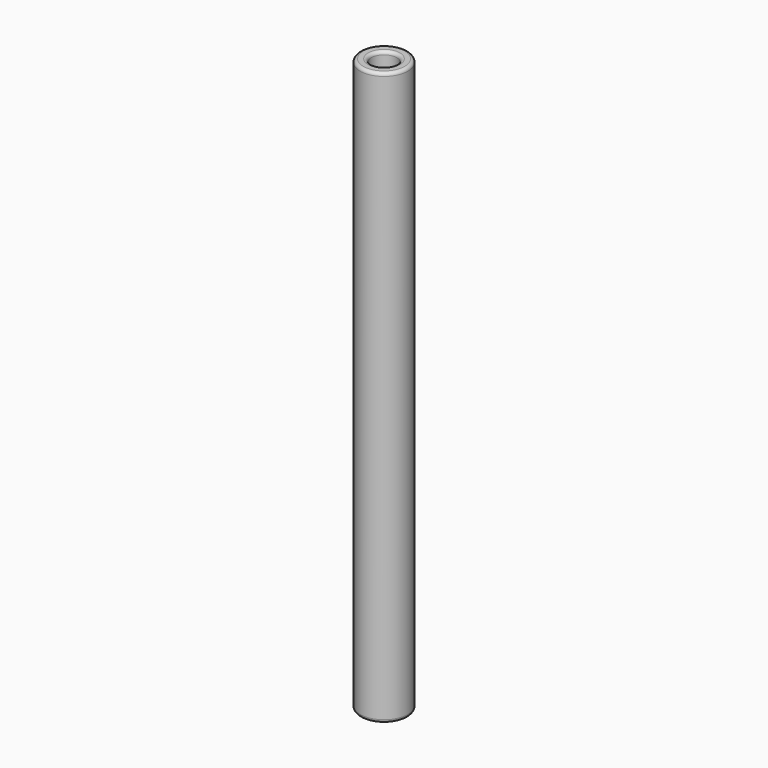
from build123d import *

# Parameters (mm, degrees)
F0_R     = 7.5
F1_DEPTH = 90
F2_R     = 4
F3_DEPTH = 10
F4_R     = 4
F5_DEPTH = 10
F6_R     = 1
F7_DEPTH = 5.0000001171
F8_DEPTH = 2
F9_R     = 1


with BuildPart() as f1:
    # F0 (on Top) → F1 (new body, symmetric)
    with BuildSketch(Plane.XY):
        Circle(F0_R)
    extrude(amount=F1_DEPTH, both=True)

    # F2 (on face) → F3 (cut)
    with BuildSketch(Plane.XY.offset(90)):
        Circle(F2_R)
    extrude(amount=-F3_DEPTH, mode=Mode.SUBTRACT)

    # F4 (on face) → F5 (cut)
    with BuildSketch(Plane(origin=(0, 0, -90), x_dir=(1, 0, 0), z_dir=(0, 0, -1))):
        Circle(F4_R)
    extrude(amount=-F5_DEPTH, mode=Mode.SUBTRACT)

    # F6 (on Front) → F7 (join, up to face)
    with BuildSketch(Plane.XZ):
        with Locations((0, 86)):
            Circle(F6_R)
        with Locations((0, -86)):
            Circle(F6_R)
    extrude(amount=F7_DEPTH)

    # F8 (cut): faces of the model
    f8_faces = [f1.faces().sort_by_distance(p)[0] for p in [
        (0, 0, 86),
        (0, 0, -86),
    ]]
    extrude(f8_faces, amount=-F8_DEPTH, mode=Mode.SUBTRACT)

    # F9
    f9_edges = [f1.edges().sort_by_distance(p)[0] for p in [
        (-7.5, 0, -90),
        (-4, 0, -90),
        (-7.5, 0, 90),
        (-4, 0, 90),
    ]]
    fillet(f9_edges, radius=F9_R)


solid = f1.part
